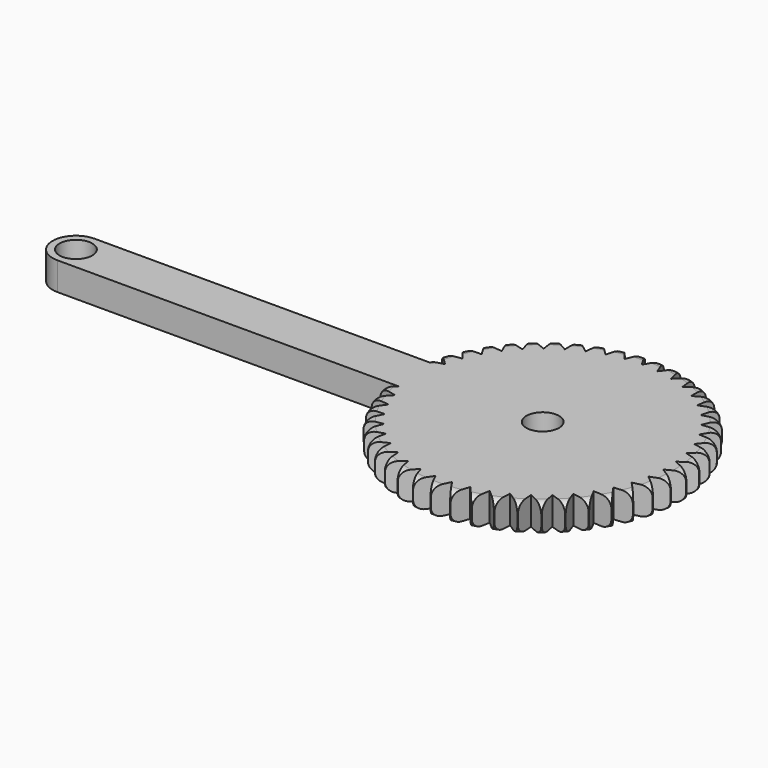
from build123d import *

# Parameters (mm, degrees)
F0_R     = 15
F1_DEPTH = 3
F2_R     = 1
F4_DEPTH = 3.001
F5_R     = 1.75
F6_DEPTH = 3
F7_R     = 1.75
F8_DEPTH = 3.0010001


with BuildPart() as f1:
    # F0 (on Top) → F1 (new body)
    with BuildSketch(Plane.XY):
        Circle(F0_R)
    extrude(amount=F1_DEPTH)

    # F2
    f2_edges = [f1.edges().sort_by_distance(p)[0] for p in [
        (-15, 0, 3),
        (-15, 0, 0),
    ]]
    fillet(f2_edges, radius=F2_R)

    # F3 (on face) → F4 (cut, through all)
    with BuildSketch(Plane.XY.offset(3)):
        Polygon((1, 15), (-1, 15), (0, 13.2679491924), align=None)
        Polygon((-1.7684445519, 13.1495657586), (-1.0082268425, 14.9994492777), (-2.9903818188, 14.7328753669), align=None)
        Polygon((-3.5053311689, 12.7965280123), (-2.998461853, 14.7312330277), (-4.9274002031, 14.2028422239), align=None)
        Polygon((-5.1796650681, 12.2151359204), (-4.9351892408, 14.2001375753), (-6.7764890141, 13.419359025), align=None)
        Polygon((-6.7615677215, 11.4157644387), (-6.7838480596, 13.4156403315), (-8.5046512181, 12.3964070463), align=None)
        Polygon((-8.2228100387, 10.4126783701), (-8.5114489491, 12.3917406681), (-10.0810477197, 11.1522408902), align=None)
        Polygon((-9.537316116, 9.2237778094), (-10.0871628305, 11.146710099), (-11.4775476858, 9.7090627312), align=None)
        Polygon((-10.6816285612, 7.870278715), (-11.4828710522, 9.7027662241), (-12.6692305416, 8.0926261178), align=None)
        Polygon((-11.6353270918, 6.3763343106), (-12.6736671679, 8.085676256), (-13.6348306783, 6.3317763996), align=None)
        Polygon((-12.3813929347, 4.7686040694), (-13.6383013928, 6.3242972036), (-14.3571169385, 4.4579359815), align=None)
        Polygon((-12.9065125273, 3.0757779755), (-14.3595598062, 4.4500609178), (-14.8232001067, 2.5045435902), align=None)
        Polygon((-13.2013150982, 1.3280645508), (-14.8245715347, 2.4964131894), (-15.024762918, 0.5064575593), align=None)
        Polygon((-13.2605398884, -0.4433482172), (-15.025038433, 0.4982169086), (-14.9582084789, -1.5006662188), align=None)
        Polygon((-13.0831300301, -2.2068494258), (-14.9573831644, -1.5088700648), (-14.6247244553, -3.4810105727), align=None)
        Polygon((-12.6722514065, -3.9309693541), (-14.622813039, -3.4890312161), (-14.0302618772, -5.3992362105), align=None)
        Polygon((-12.0352361563, -5.5849410412), (-14.0272984684, -5.4069305227), (-13.1854289436, -7.2211123502), align=None)
        Polygon((-11.1834518319, -7.1392493231), (-13.1814664244, -7.228343026), (-12.1053017181, -8.9141275689), align=None)
        Polygon((-10.1320985445, -8.5661575317), (-12.1004107998, -8.9207655768), (-10.8091550967, -10.4480699699), align=None)
        Polygon((-8.8999377185, -9.8402024562), (-10.8034230577, -10.4539968546), (-9.3201188464, -11.7955663149), align=None)
        Polygon((-7.5089572932, -10.9386487347), (-9.3136479753, -11.8006763108), (-7.6647648546, -12.9325704995), align=None)
        Polygon((-5.983979347, -11.8418945675), (-7.6576706241, -12.9367724187), (-5.8726329524, -13.8387926571), align=None)
        Polygon((-4.3522171477, -12.5338215111), (-5.8650419592, -13.8420115163), (-3.975703776, -14.498061232), align=None)
        Polygon((-2.6427895302, -13.002082113), (-3.9677514816, -14.5002395904), (-2.0078280715, -14.8986115607), align=None)
        Polygon((-0.886201271, -13.2383202515), (-1.9996563848, -14.8997105456), (-0.0041226276, -15.0332958131), align=None)
        Polygon((0.886201271, -13.2383202515), (0.0041226276, -15.0332958131), (1.9996563848, -14.8997105456), align=None)
        Polygon((2.6427895302, -13.002082113), (2.0078280715, -14.8986115607), (3.9677514816, -14.5002395904), align=None)
        Polygon((4.3522171477, -12.5338215111), (3.975703776, -14.498061232), (5.8650419592, -13.8420115163), align=None)
        Polygon((5.983979347, -11.8418945675), (5.8726329524, -13.8387926571), (7.6576706241, -12.9367724187), align=None)
        Polygon((7.5089572932, -10.9386487347), (7.6647648546, -12.9325704995), (9.3136479753, -11.8006763108), align=None)
        Polygon((8.8999377185, -9.8402024562), (9.3201188464, -11.7955663149), (10.8034230577, -10.4539968546), align=None)
        Polygon((10.1320985445, -8.5661575317), (10.8091550967, -10.4480699699), (12.1004107998, -8.9207655768), align=None)
        Polygon((11.1834518319, -7.1392493231), (12.1053017181, -8.9141275689), (13.1814664244, -7.228343026), align=None)
        Polygon((12.0352361563, -5.5849410412), (13.1854289436, -7.2211123502), (14.0272984684, -5.4069305227), align=None)
        Polygon((12.6722514065, -3.9309693541), (14.0302618772, -5.3992362105), (14.622813039, -3.4890312161), align=None)
        Polygon((13.0831300301, -2.2068494258), (14.6247244553, -3.4810105727), (14.9573831644, -1.5088700648), align=None)
        Polygon((13.2605398884, -0.4433482172), (14.9582084789, -1.5006662188), (15.025038433, 0.4982169086), align=None)
        Polygon((13.2013150982, 1.3280645508), (15.024762918, 0.5064575593), (14.8245715347, 2.4964131894), align=None)
        Polygon((12.9065125273, 3.0757779755), (14.8232001067, 2.5045435902), (14.3595598062, 4.4500609178), align=None)
        Polygon((12.3813929347, 4.7686040694), (14.3571169385, 4.4579359815), (13.6383013928, 6.3242972036), align=None)
        Polygon((11.6353270918, 6.3763343106), (13.6348306783, 6.3317763996), (12.6736671679, 8.085676256), align=None)
        Polygon((10.6816285612, 7.870278715), (12.6692305416, 8.0926261178), (11.4828710522, 9.7027662241), align=None)
        Polygon((9.537316116, 9.2237778093), (11.4775476858, 9.7090627312), (10.0871628305, 11.146710099), align=None)
        Polygon((8.2228100387, 10.4126783701), (10.0810477197, 11.1522408902), (8.5114489491, 12.3917406681), align=None)
        Polygon((6.7615677215, 11.4157644387), (8.5046512181, 12.3964070463), (6.7838480596, 13.4156403315), align=None)
        Polygon((5.1796650681, 12.2151359204), (6.7764890141, 13.419359025), (4.9351892408, 14.2001375753), align=None)
        Polygon((3.5053311689, 12.7965280123), (4.9274002031, 14.2028422239), (2.998461853, 14.7312330277), align=None)
        Polygon((1.7684445519, 13.1495657586), (2.9903818188, 14.7328753669), (1.0082268425, 14.9994492777), align=None)
    extrude(amount=-F4_DEPTH, mode=Mode.SUBTRACT)

    # F5 (on Top) → F6 (join)
    with BuildSketch(Plane.XY):
        with BuildLine():
            Line((0, 2.5), (-50, 2.5))
            ThreePointArc((-50, 2.5), (-52.5, 0), (-50, -2.5))
            Line((-50, -2.5), (0, -2.5))
            Line((0, -2.5), (0, 2.5))
        make_face()
        with Locations((-50, 0)):
            Circle(F5_R, mode=Mode.SUBTRACT)
    extrude(amount=F6_DEPTH)

    # F7 (on face) → F8 (cut, through all)
    with BuildSketch(Plane.XY.offset(3)):
        Circle(F7_R)
    extrude(amount=-F8_DEPTH, mode=Mode.SUBTRACT)


solid = f1.part
